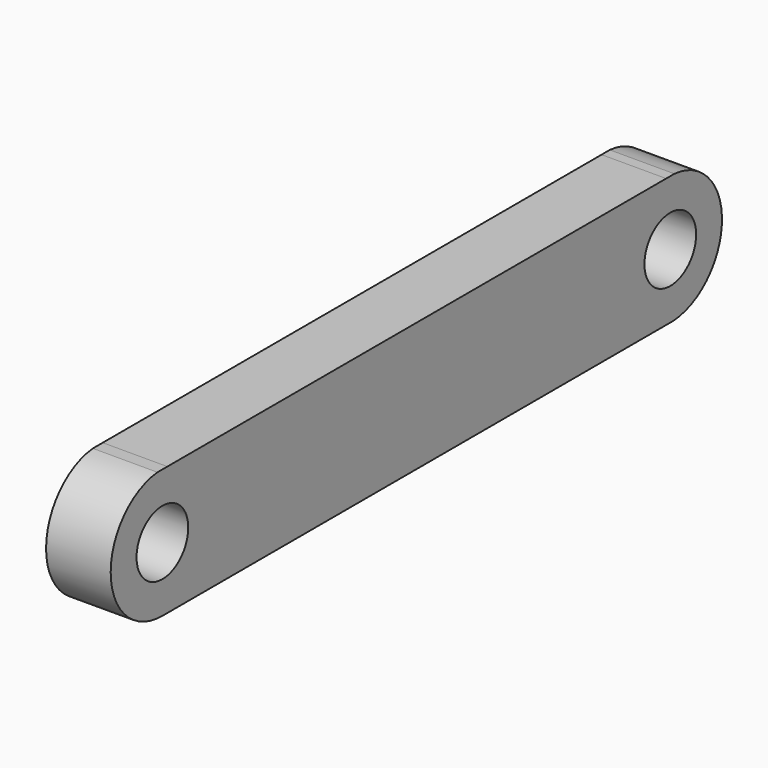
from build123d import *

# Parameters (mm, degrees)
F0_R     = 63.5
F1_DEPTH = 127


with BuildPart() as f1:
    # F0 (on Right) → F1 (new body)
    with BuildSketch(Plane.YZ):
        with BuildLine():
            Line((790.493007, 126.598885), (-435.038035, 126.417593))
            Line((-435.038035, 126.417593), (-459.372944, 126.413993))
            ThreePointArc((-459.372944, 126.413993), (-573.96915, -7.43188), (-444.519662, -126.971991))
            Line((-444.519662, -126.971991), (793.259037, -126.788887))
            Line((793.259037, -126.788887), (807.935979, -126.786715))
            ThreePointArc((807.935979, -126.786715), (927.571591, -1.348702), (810.627042, 126.601864))
            Line((810.627042, 126.601864), (790.493007, 126.598885))
        make_face()
        with Locations((-447.186789, 0)):
            Circle(F0_R, mode=Mode.SUBTRACT)
        with Locations((800.578752, 0)):
            Circle(F0_R, mode=Mode.SUBTRACT)
    extrude(amount=F1_DEPTH)


solid = f1.part
